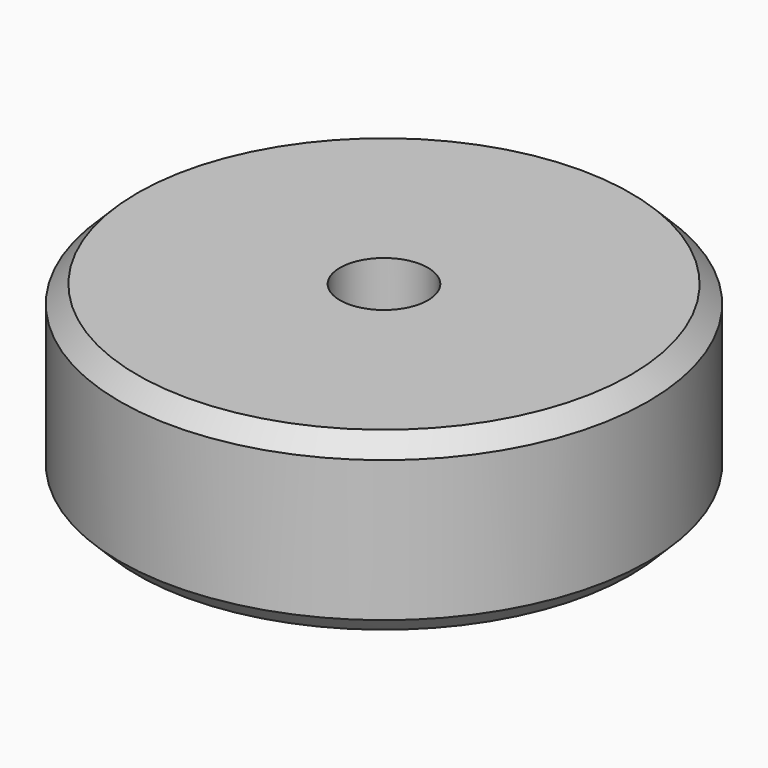
from build123d import *

# Parameters (mm, degrees)
F0_R     = 15
F1_DEPTH = 10
F2_SIZE  = 1
F4_D     = 5


with BuildPart() as f1:
    # F0 (on Top) → F1 (new body)
    with BuildSketch(Plane.XY):
        Circle(F0_R)
    extrude(amount=F1_DEPTH)

    # F2
    f2_edges = [f1.edges().sort_by_distance(p)[0] for p in [
        (-15, 0, 10),
        (-15, 0, 0),
    ]]
    chamfer(f2_edges, length=F2_SIZE)

    # F4 (through all)
    with Locations(Plane.XY.offset(10)):
        with Locations((0, 0)):
            Hole(F4_D / 2)


solid = f1.part
